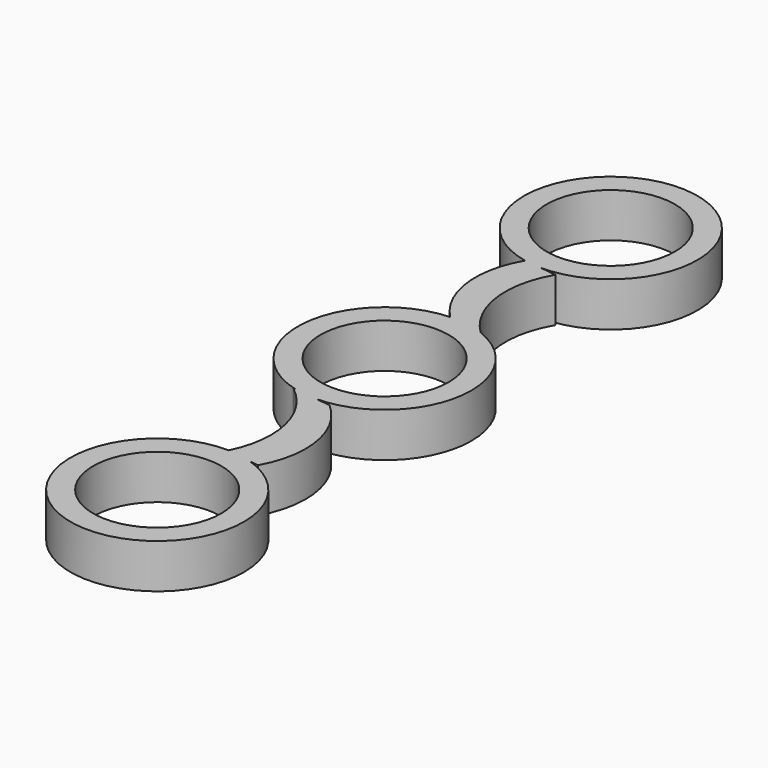
from build123d import *

# Parameters (mm, degrees)
F0_R      = 14.9225
F1_DEPTH  = 7.62
F2_R      = 11.0236
F3_DEPTH  = 25.4
F5_DEPTH  = 7.62
F6_DEPTH  = 7.62
F7_R      = 14.9225
F8_DEPTH  = 7.62
F9_R      = 11.0236
F10_DEPTH = 25.4


with BuildPart() as f1:
    # F0 (on Top) → F1 (new body)
    with BuildSketch(Plane.XY):
        Circle(F0_R)
    extrude(amount=F1_DEPTH)

    # F2 (on face) → F3 (cut)
    with BuildSketch(Plane.XY.offset(7.62)):
        Circle(F2_R)
    extrude(amount=-F3_DEPTH, mode=Mode.SUBTRACT)

    # F4 (on Top) → F5 (join)
    with BuildSketch(Plane.XY):
        with BuildLine():
            Line((2.708977, 33.321824), (-3.027178, 34.026534))
            ThreePointArc((-3.027178, 34.026534), (-5.061644, 23.760928), (-0.211553, 14.487399))
            Line((-0.211553, 14.487399), (5.524602, 13.782689))
            ThreePointArc((5.524602, 13.782689), (0.674511, 23.056218), (2.708977, 33.321824))
        make_face()
        with BuildLine():
            Line((0.229531, -34.11213), (6.113042, -34.834943))
            ThreePointArc((6.113042, -34.834943), (7.902941, -24.423116), (2.708977, -15.223516))
            Line((2.708977, -15.223516), (-4.207222, -14.373833))
            ThreePointArc((-4.207222, -14.373833), (1.600579, -23.436154), (0.229531, -34.11213))
        make_face()
    extrude(amount=F5_DEPTH)

    # F4 (on Top) → F6 (join)
    with BuildSketch(Plane.XY):
        with BuildLine():
            Line((2.708977, 33.321824), (-3.027178, 34.026534))
            ThreePointArc((-3.027178, 34.026534), (-5.061644, 23.760928), (-0.211553, 14.487399))
            Line((-0.211553, 14.487399), (5.524602, 13.782689))
            ThreePointArc((5.524602, 13.782689), (0.674511, 23.056218), (2.708977, 33.321824))
        make_face()
        with BuildLine():
            Line((0.229531, -34.11213), (6.113042, -34.834943))
            ThreePointArc((6.113042, -34.834943), (7.902941, -24.423116), (2.708977, -15.223516))
            Line((2.708977, -15.223516), (-4.207222, -14.373833))
            ThreePointArc((-4.207222, -14.373833), (1.600579, -23.436154), (0.229531, -34.11213))
        make_face()
    extrude(amount=F6_DEPTH)

    # F7 (on Top) → F8 (join)
    with BuildSketch(Plane.XY):
        with Locations((0, 48.594203)):
            Circle(F7_R)
        with Locations((0, -48.849575)):
            Circle(F7_R)
    extrude(amount=F8_DEPTH)

    # F9 (on face) → F10 (cut)
    with BuildSketch(Plane.XY.offset(7.62)):
        with Locations((0, 48.594203)):
            Circle(F9_R)
        with Locations((0, -48.849575)):
            Circle(F9_R)
    extrude(amount=-F10_DEPTH, mode=Mode.SUBTRACT)


solid = f1.part
